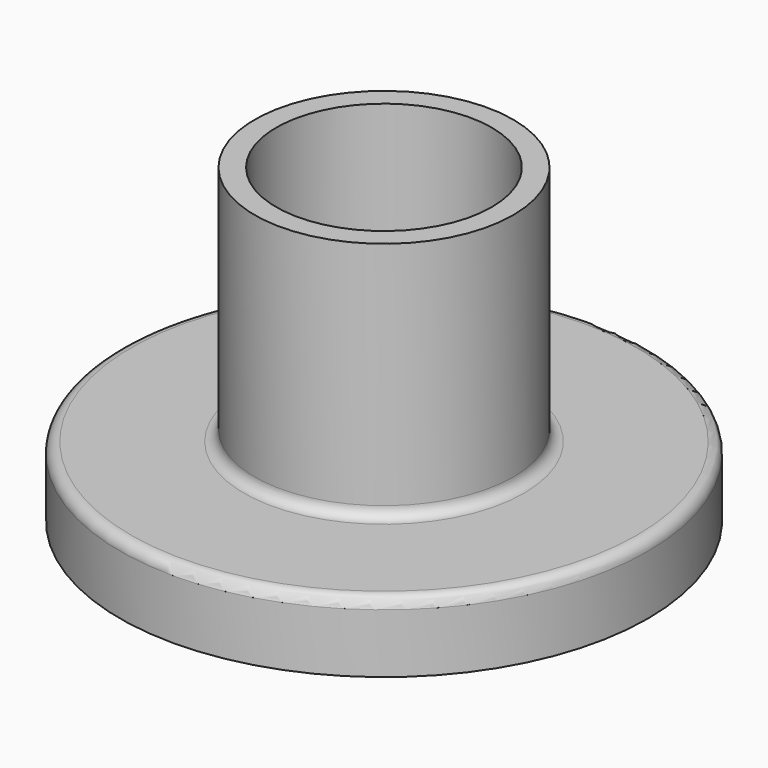
from build123d import *

# Parameters (mm, degrees)
SKETCH_R        = 24.499989
PAD_DEPTH       = 6.5
SKETCH001_R     = 12
PAD001_DEPTH    = 22.4
SKETCH002_R     = 10
POCKET_DEPTH    = 30
SKETCH003_R     = 21.680004
POCKET001_DEPTH = 4.5
FILLET_R        = 2
FILLET001_R     = 1
FILLET002_R     = 1


with BuildPart() as part:
    # Sketch → Pad (new body)
    with BuildSketch(Plane.XY):
        Circle(SKETCH_R)
    extrude(amount=PAD_DEPTH)

    # Sketch001 (on Face3 of Pad) → Pad001 (join)
    with BuildSketch(Plane.XY.offset(6.5)):
        Circle(SKETCH001_R)
    extrude(amount=PAD001_DEPTH)

    # Sketch002 (on Face5 of Pad001) → Pocket (cut)
    with BuildSketch(Plane.XY.offset(28.9)):
        Circle(SKETCH002_R)
    extrude(amount=-POCKET_DEPTH, mode=Mode.SUBTRACT)

    # Sketch003 (on Face2 of Pocket) → Pocket001 (cut)
    with BuildSketch(Plane(origin=(0, 0, 0), x_dir=(1, 0, 0), z_dir=(0, 0, -1))):
        Circle(SKETCH003_R)
    extrude(amount=-POCKET001_DEPTH, mode=Mode.SUBTRACT)

    # Fillet
    fillet_edges = [part.edges().sort_by_distance(p)[0] for p in [
        (-10, 0, 4.5),
    ]]
    fillet(fillet_edges, radius=FILLET_R)

    # Fillet001
    fillet001_edges = [part.edges().sort_by_distance(p)[0] for p in [
        (-24.499989, 0, 6.5),
    ]]
    fillet(fillet001_edges, radius=FILLET001_R)

    # Fillet002
    fillet002_edges = [part.edges().sort_by_distance(p)[0] for p in [
        (-12, 0, 6.5),
    ]]
    fillet(fillet002_edges, radius=FILLET002_R)


solid = part.part
